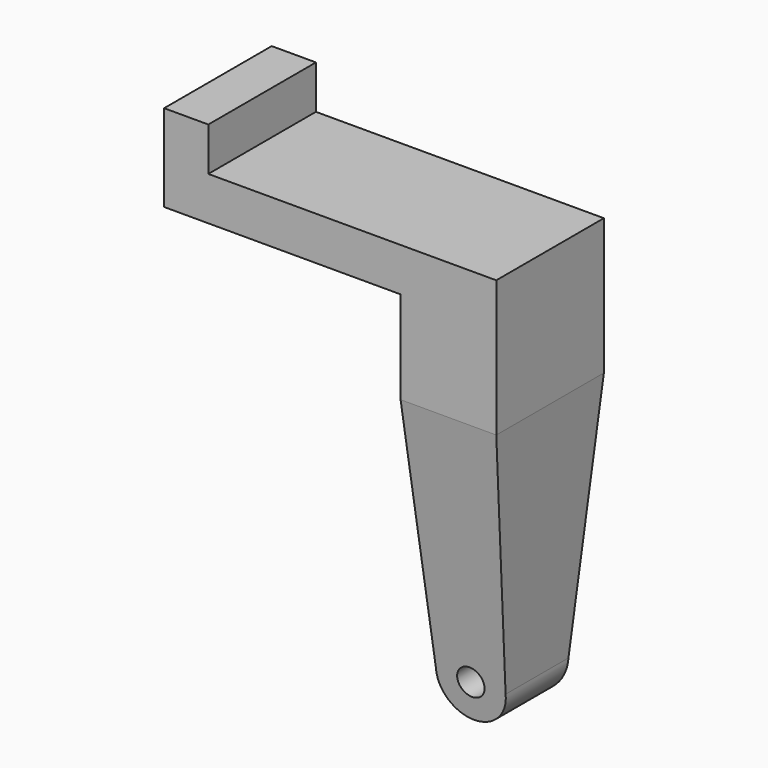
from build123d import *

# Parameters (mm, degrees)
F0_W     = 6.4516
F0_H     = 19.6342
F0_W_2   = 28.067
F0_W_3   = 13.97
F1_DEPTH = 6.35
F2_DEPTH = 6.35
F3_DEPTH = 60.96
F5_DEPTH = 19.6352
F4_R     = 1.9939
F6_DEPTH = 19.6352
F8_DEPTH = 48.4896


with BuildPart() as f1:
    # F0 (on Top) → F1 (new body)
    with BuildSketch(Plane.XY):
        with Locations((-22.536153, 17.688083)):
            Rectangle(F0_W, F0_H)
        with Locations((-5.276853, 17.688083)):
            Rectangle(F0_W_2, F0_H)
        with Locations((15.741647, 17.688083)):
            Rectangle(F0_W_3, F0_H)
    extrude(amount=-F1_DEPTH)

    # F0 (on Top) → F2 (join)
    with BuildSketch(Plane.XY):
        with Locations((-22.536153, 17.688083)):
            Rectangle(F0_W, F0_H)
    extrude(amount=F2_DEPTH)

    # F0 (on Top) → F3 (join)
    with BuildSketch(Plane.XY):
        with Locations((15.741647, 17.688083)):
            Rectangle(F0_W_3, F0_H)
    extrude(amount=-F3_DEPTH)

    # F4 (on face) → F5 (cut, through all)
    with BuildSketch(Plane(origin=(0, 27.505183, 0), x_dir=(-1, 0, 0), z_dir=(0, 1, 0))):
        with BuildLine():
            ThreePointArc((-10.662622, -55.478505), (-10.66189, -55.528265), (-10.661647, -55.578031))
            ThreePointArc((-10.661647, -55.578031), (-15.791412, -60.657787), (-20.820672, -55.478505))
            Line((-20.820672, -55.478505), (-22.726647, -19.884773))
            Line((-22.726647, -19.884773), (-22.726647, -60.96))
            Line((-22.726647, -60.96), (-8.756647, -60.96))
            Line((-8.756647, -60.96), (-8.756647, -19.884773))
            Line((-8.756647, -19.884773), (-10.662622, -55.478505))
        make_face()
    extrude(amount=-F5_DEPTH, mode=Mode.SUBTRACT)

    # F4 (on face) → F6 (cut, through all)
    with BuildSketch(Plane(origin=(0, 27.505183, 0), x_dir=(-1, 0, 0), z_dir=(0, 1, 0))):
        with Locations((-15.741647, -55.578031)):
            Circle(F4_R)
    extrude(amount=-F6_DEPTH, mode=Mode.SUBTRACT)

    # F7 (on face) → F8 (cut, through all)
    with BuildSketch(Plane.YZ.offset(22.726647)):
        Polygon((22.828814, -60.658031), (27.505183, -60.658031), (27.505183, -55.478505), (27.505183, -19.884773), align=None)
        Polygon((7.870983, -60.658031), (12.547351, -60.658031), (7.870983, -19.884773), (7.870983, -55.478505), align=None)
    extrude(amount=-F8_DEPTH, mode=Mode.SUBTRACT)


solid = f1.part
